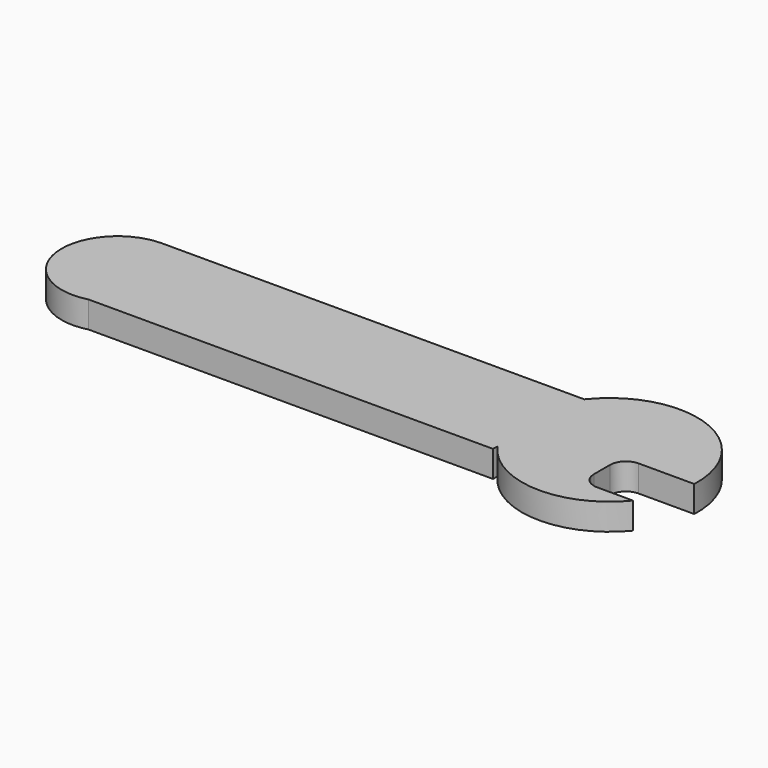
from build123d import *

# Parameters (mm, degrees)
F1_DEPTH = 5


with BuildPart() as f1:
    # F0 (on Top) → F1 (new body)
    with BuildSketch(Plane.XY):
        with BuildLine():
            Line((26.669694, 11.429262), (-52.970227, 11.429262))
            ThreePointArc((-52.970227, 11.429262), (-63.433421, -0.472084), (-50.289965, -9.324771))
            Line((-50.289965, -9.324771), (26.031774, -9.324771))
            Line((26.031774, -9.324771), (26.063537, -8.29138))
            ThreePointArc((26.063537, -8.29138), (23.106773, 1.66914), (26.669694, 11.429262))
        make_face()
        with BuildLine():
            ThreePointArc((56.184654, 0.453414), (45.418068, 16.673179), (26.669694, 11.429262))
            ThreePointArc((26.669694, 11.429262), (23.106773, 1.66914), (26.063537, -8.29138))
            ThreePointArc((26.063537, -8.29138), (39.001798, -15.377065), (52.454503, -9.324771))
            Line((52.454503, -9.324771), (45.693033, -9.324771))
            ThreePointArc((45.693033, -9.324771), (43.571713, -8.446092), (42.693033, -6.324771))
            Line((42.693033, -6.324771), (42.693033, -2.546586))
            ThreePointArc((42.693033, -2.546586), (43.571713, -0.425266), (45.693033, 0.453414))
            Line((45.693033, 0.453414), (56.184654, 0.453414))
        make_face()
    extrude(amount=F1_DEPTH)


solid = f1.part
